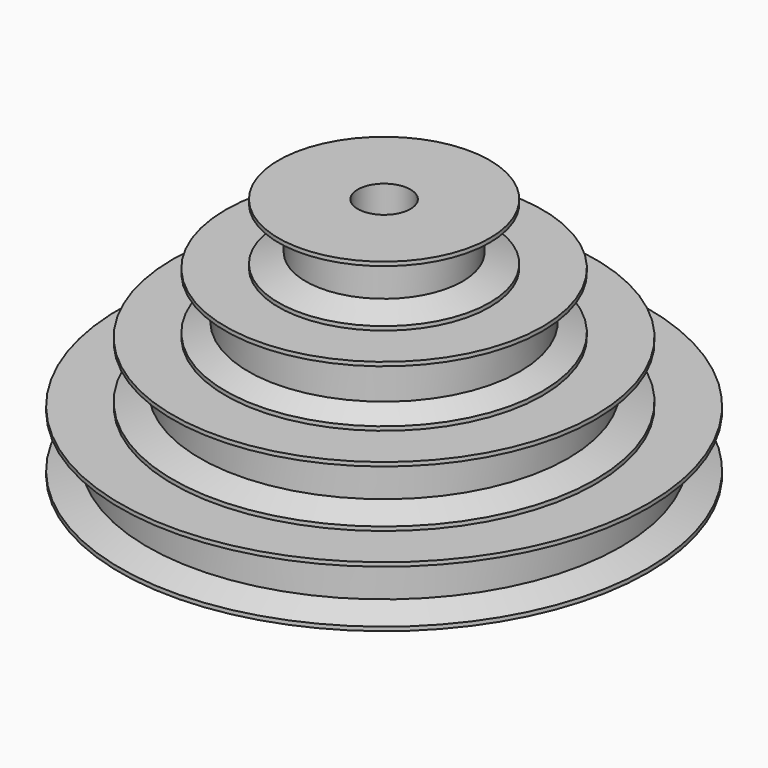
from build123d import *


with BuildPart() as f1:
    # F0 (on Front) → F1 (revolve)
    with BuildSketch(Plane.XZ):
        Polygon((25.4, 58.42), (6.35, 58.42), (6.35, 0), (63.493901, 0), (63.493901, 0.9525), (56.951471, 3.33375), (56.951471, 7.3025), (56.951471, 11.27125), (63.493901, 13.6525), (63.493901, 14.605), (50.8, 14.605), (50.8, 15.5575), (44.262227, 17.93875), (44.262227, 21.9075), (44.262227, 25.87625), (50.8, 28.2575), (50.8, 29.21), (38.1, 29.21), (38.1, 30.1625), (32.657561, 32.54375), (32.657561, 36.5125), (32.657561, 40.48125), (38.1, 42.8625), (38.1, 43.815), (25.4, 43.815), (25.4, 44.7675), (18.857569, 47.14875), (18.857569, 51.1175), (18.857569, 55.08625), (25.4, 57.4675), align=None)
    revolve(axis=Axis((0, 0, 27.116194), (0, 0, 1)))


solid = f1.part
